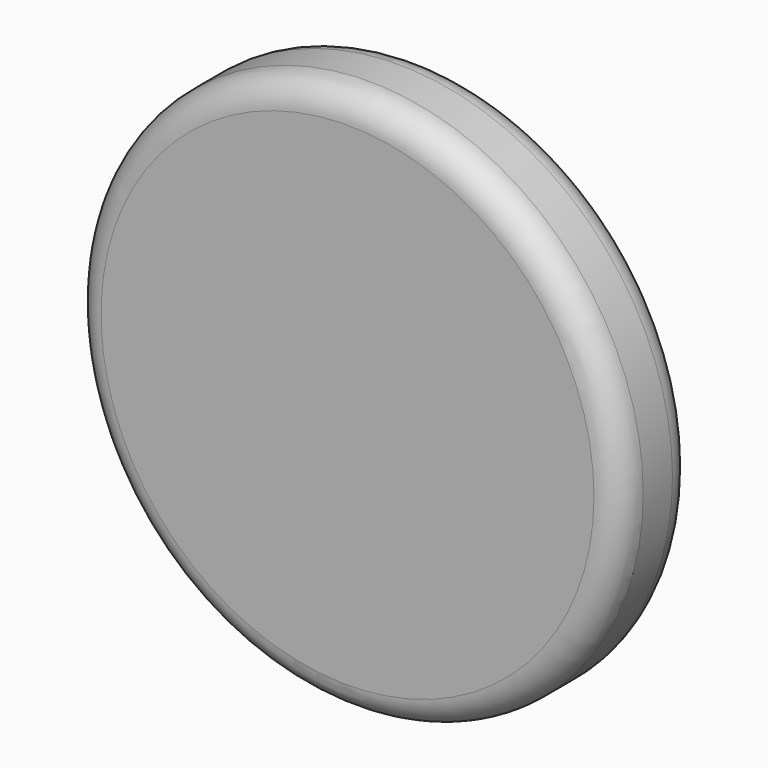
from build123d import *

# Parameters (mm, degrees)
F0_R     = 30
F1_DEPTH = 10
F2_R     = 3
F3_R     = 5
F4_DEPTH = 6


with BuildPart() as f1:
    # F0 (on Front) → F1 (new body)
    with BuildSketch(Plane.XZ):
        Circle(F0_R)
    extrude(amount=F1_DEPTH)

    # F2
    f2_edges = [f1.edges().sort_by_distance(p)[0] for p in [
        (-30, -10, 0),
        (-30, 0, 0),
    ]]
    fillet(f2_edges, radius=F2_R)

    # F3 (on face) → F4 (join)
    with BuildSketch(Plane(origin=(0, 0, 0), x_dir=(-1, 0, 0), z_dir=(0, 1, 0))):
        Circle(F3_R)
    extrude(amount=F4_DEPTH)


solid = f1.part
